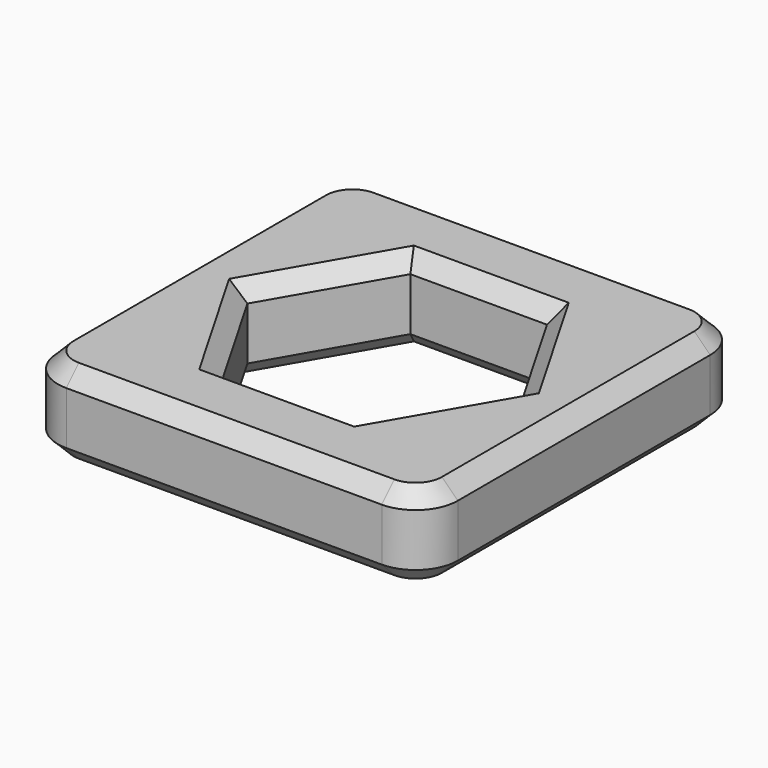
from build123d import *

# Parameters (mm, degrees)
F0_W     = 18.95
F0_H     = 18.95
F1_DEPTH = 4
F2_R     = 2
F3_SIZE  = 0.75


with BuildPart() as f1:
    # F0 (on Top) → F1 (new body)
    with BuildSketch(Plane.XY):
        Rectangle(F0_W, F0_H)
        Polygon((-6.47354, 0), (-3.23677, 5.60625), (3.23677, 5.60625), (6.47354, 0), (3.23677, -5.60625), (-3.23677, -5.60625), align=None, mode=Mode.SUBTRACT)
    extrude(amount=F1_DEPTH)

    # F2
    f2_edges = [f1.edges().sort_by_distance(p)[0] for p in [
        (9.475, -9.475, 2),
        (9.475, 9.475, 2),
        (-9.475, -9.475, 2),
        (-9.475, 9.475, 2),
    ]]
    fillet(f2_edges, radius=F2_R)

    # F3
    f3_edges = [f1.edges().sort_by_distance(p)[0] for p in [
        (9.475, 0, 4),
        (8.889214, -8.889214, 4),
        (8.889214, 8.889214, 4),
        (0, -9.475, 4),
        (0, 9.475, 4),
        (-8.889214, -8.889214, 4),
        (-8.889214, 8.889214, 4),
        (-9.475, 0, 4),
        (-4.855155, 2.803125, 4),
        (0, 5.60625, 4),
        (4.855155, 2.803125, 4),
        (4.855155, -2.803125, 4),
        (0, -5.60625, 4),
        (-4.855155, -2.803125, 4),
        (9.475, 0, 0),
        (8.889214, -8.889214, 0),
        (8.889214, 8.889214, 0),
        (0, -9.475, 0),
        (0, 9.475, 0),
        (-8.889214, -8.889214, 0),
        (-8.889214, 8.889214, 0),
        (-9.475, 0, 0),
        (-4.855155, 2.803125, 0),
        (0, 5.60625, 0),
        (4.855155, 2.803125, 0),
        (4.855155, -2.803125, 0),
        (0, -5.60625, 0),
        (-4.855155, -2.803125, 0),
    ]]
    chamfer(f3_edges, length=F3_SIZE)


solid = f1.part
